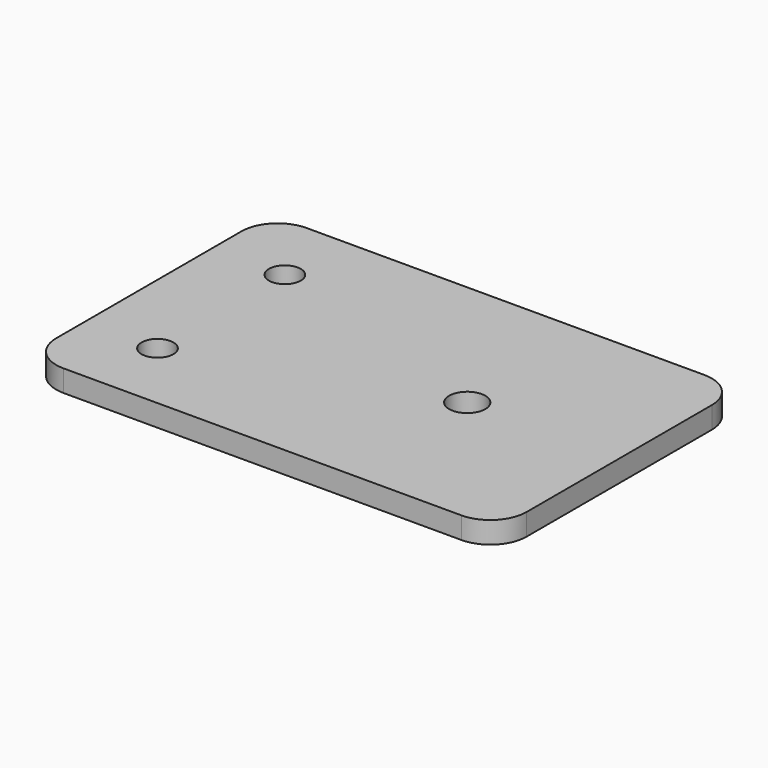
from build123d import *

# Parameters (mm, degrees)
F0_W     = 65
F0_H     = 42
F1_DEPTH = 3
F3_D     = 4.4
F4_D     = 5
F5_R     = 5


with BuildPart() as f1:
    # F0 (on Top) → F1 (new body)
    with BuildSketch(Plane.XY):
        with Locations((32.5, -21)):
            Rectangle(F0_W, F0_H)
    extrude(amount=F1_DEPTH)

    # F3 (through all)
    with Locations(Plane.XY.offset(3)):
        with Locations((10, -10), (10, -32)):
            Hole(F3_D / 2)

    # F4 (through all)
    with Locations(Plane.XY.offset(3)):
        with Locations((44, -21)):
            Hole(F4_D / 2)

    # F5
    f5_edges = [f1.edges().sort_by_distance(p)[0] for p in [
        (0, -42, 1.5),
        (65, -42, 1.5),
        (65, 0, 1.5),
        (0, 0, 1.5),
    ]]
    fillet(f5_edges, radius=F5_R)


solid = f1.part
